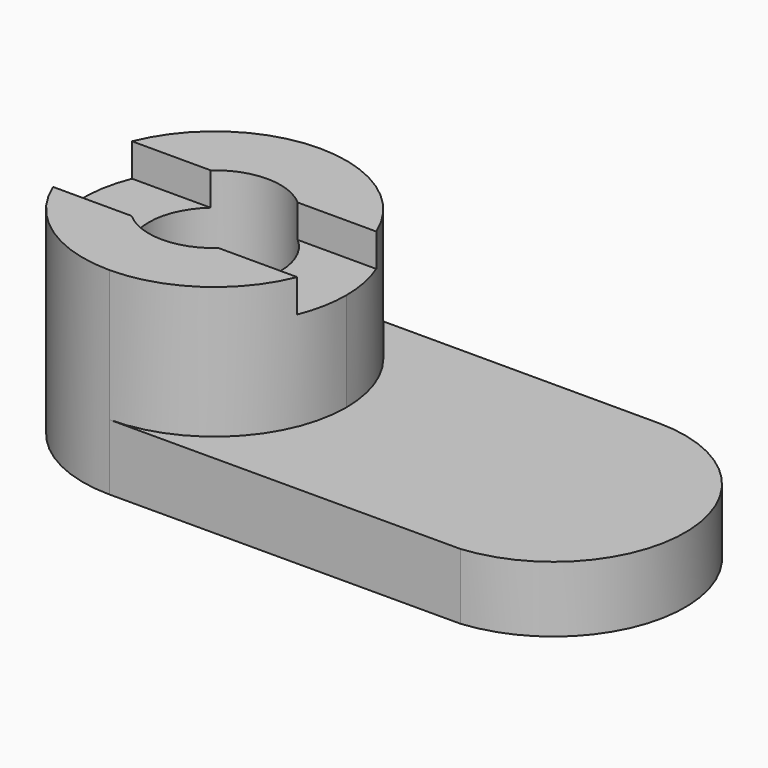
from build123d import *

# Parameters (mm, degrees)
F1_DEPTH = 10
F2_R     = 10
F3_DEPTH = 20
F5_DEPTH = 5


with BuildPart() as f1:
    # F0 (on Top) → F1 (new body)
    with BuildSketch(Plane.XY):
        with BuildLine():
            Line((51.441539079, 20), (0, 20))
            ThreePointArc((0, 20), (-20, 0), (0, -20))
            ThreePointArc((0, -20), (0.030776405, -19.9999763203), (0.061552737, -19.9999052813))
            Line((0.061552737, -19.9999052813), (49.6942619614, -19.9235293729))
            Line((49.6942619614, -19.9235293729), (53.2501253097, -19.9180575319))
            ThreePointArc((53.2501253097, -19.9180575319), (71.4210429597, 0.905220791), (51.441539079, 20))
        make_face()
    extrude(amount=F1_DEPTH)

    # F2 (on face) → F3 (join)
    with BuildSketch(Plane.XY.offset(10)):
        with BuildLine():
            ThreePointArc((0.061552737, -19.9999052813), (14.1638810843, -14.120356675), (20, 0))
            ThreePointArc((20, 0), (14.1421356237, 14.1421356237), (0, 20))
            ThreePointArc((0, 20), (-20, 0), (0, -20))
            ThreePointArc((0, -20), (0.030776405, -19.9999763203), (0.061552737, -19.9999052813))
        make_face()
        Circle(F2_R, mode=Mode.SUBTRACT)
    extrude(amount=F3_DEPTH)

    # F4 (on face) → F5 (cut)
    with BuildSketch(Plane.XY.offset(30)):
        with BuildLine():
            Line((-6.6143782777, 7.5), (-18.5404962177, 7.5))
            ThreePointArc((-18.5404962177, 7.5), (-20, 0), (-18.5404962177, -7.5))
            Line((-18.5404962177, -7.5), (-6.6143782777, -7.5))
            ThreePointArc((-6.6143782777, -7.5), (-10, 0), (-6.6143782777, 7.5))
        make_face()
        with BuildLine():
            ThreePointArc((20, 0), (19.63173355, 3.8203452491), (18.5404962177, 7.5))
            Line((18.5404962177, 7.5), (6.6143782777, 7.5))
            ThreePointArc((6.6143782777, 7.5), (9.1143782777, 4.1143782777), (10, 0))
            ThreePointArc((10, 0), (9.1143782777, -4.1143782777), (6.6143782777, -7.5))
            Line((6.6143782777, -7.5), (18.5404962177, -7.5))
            ThreePointArc((18.5404962177, -7.5), (19.63173355, -3.8203452491), (20, 0))
        make_face()
    extrude(amount=-F5_DEPTH, mode=Mode.SUBTRACT)


solid = f1.part
